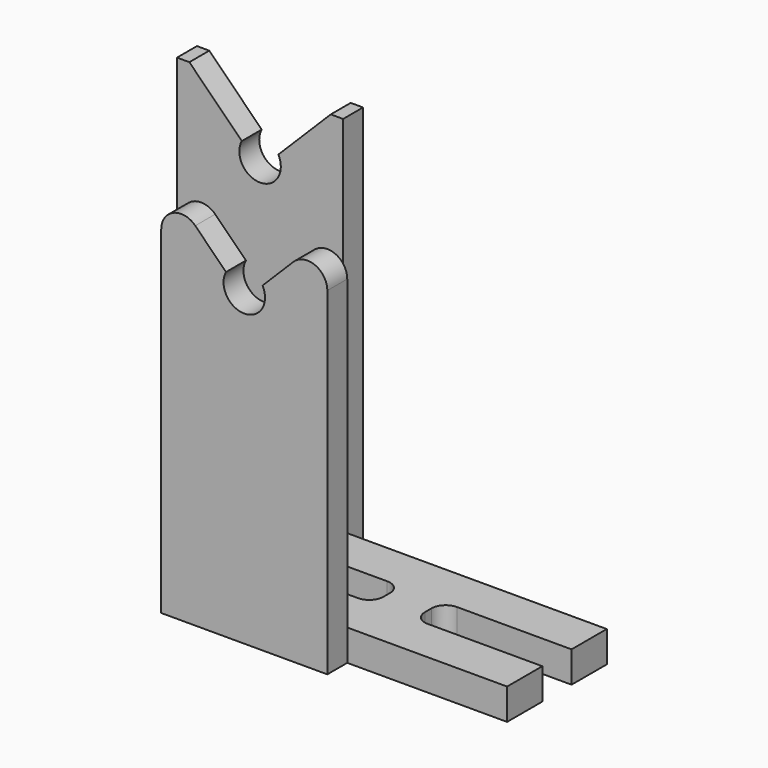
from build123d import *

# Parameters (mm, degrees)
F0_W           = 44.45
F0_H           = 4.7625
F1_DEPTH       = 19.05
F2_W           = 15.875
F2_H           = 5.588
F3_DEPTH       = 4.7635
F4_R           = 2.159
F5_R           = 3.175
F6_DEPTH       = 3.81
F7_W           = 34.26374
F7_H           = 5.588
F8_DEPTH       = 25.4
F10_DEPTH      = 3.811
F10_DEPTH_BACK = 19.051
F11_W          = 25.4
F11_H          = 61.851404
F11_R          = 3.175
F12_DEPTH      = 3.81
F14_DEPTH      = 5.08
F15_R          = 3.048


with BuildPart() as f1:
    # F0 (on Front) → F1 (new body)
    with BuildSketch(Plane.XZ):
        with Locations((-22.225, -83.34375)):
            Rectangle(F0_W, F0_H)
    extrude(amount=F1_DEPTH)

    # F2 (on face) → F3 (cut, through all)
    with BuildSketch(Plane.XY.offset(-80.9625)):
        with Locations((-33.9725, -9.525)):
            Rectangle(F2_W, F2_H)
        with Locations((-11.7475, -9.525)):
            Rectangle(F2_W, F2_H)
    extrude(amount=-F3_DEPTH, mode=Mode.SUBTRACT)

    # F4
    f4_edges = [f1.edges().sort_by_distance(p)[0] for p in [
        (-3.81, -6.731, -83.34375),
        (-26.035, -6.731, -83.34375),
        (-3.81, -12.319, -83.34375),
        (-26.035, -12.319, -83.34375),
        (-19.685, -6.731, -83.34375),
        (-41.91, -6.731, -83.34375),
        (-19.685, -12.319, -83.34375),
        (-41.91, -12.319, -83.34375),
    ]]
    fillet(f4_edges, radius=F4_R)

    # F5 (on Front) → F6 (join)
    with BuildSketch(Plane.XZ):
        Polygon((-65.7225, -85.725), (-44.45, -85.725), (-40.3225, -85.725), (-40.3225, -25.4), (-65.7225, -25.4), align=None)
        with Locations((-53.0225, -34.925)):
            Circle(F5_R, mode=Mode.SUBTRACT)
    extrude(amount=-F6_DEPTH)

    # F7 (on face) → F8 (cut)
    with BuildSketch(Plane(origin=(0, 0, -85.725), x_dir=(1, 0, 0), z_dir=(0, 0, -1))):
        with Locations((6.945667, 9.525)):
            Rectangle(F7_W, F7_H)
    extrude(amount=-F8_DEPTH, mode=Mode.SUBTRACT)

    # F9 (on Front) → F10 (cut, two sides)
    with BuildSketch(Plane.XZ) as f10_sk:
        Polygon((-68.922343, -20.311116), (-53.0225, -36.210959), (-37.122657, -20.311116), align=None)
    extrude(amount=-F10_DEPTH, mode=Mode.SUBTRACT)
    extrude(f10_sk.sketch, amount=-F10_DEPTH_BACK, mode=Mode.SUBTRACT)

    # F11 (on face) → F12 (join)
    with BuildSketch(Plane.XZ.offset(19.05)):
        with Locations((-37.1475, -54.799298)):
            Rectangle(F11_W, F11_H)
        with Locations((-37.1475, -38.1)):
            Circle(F11_R, mode=Mode.SUBTRACT)
    extrude(amount=F12_DEPTH)

    # F13 (on face) → F14 (cut)
    with BuildSketch(Plane.XZ.offset(22.86)):
        Polygon((-55.090682, -21.442777), (-39.9415, -36.591959), (-34.3535, -36.591959), (-19.204318, -21.442777), align=None)
    extrude(amount=-F14_DEPTH, mode=Mode.SUBTRACT)

    # F15
    f15_edges = [f1.edges().sort_by_distance(p)[0] for p in [
        (-49.8475, -20.955, -26.685959),
        (-24.4475, -20.955, -26.685959),
    ]]
    fillet(f15_edges, radius=F15_R)


solid = f1.part
